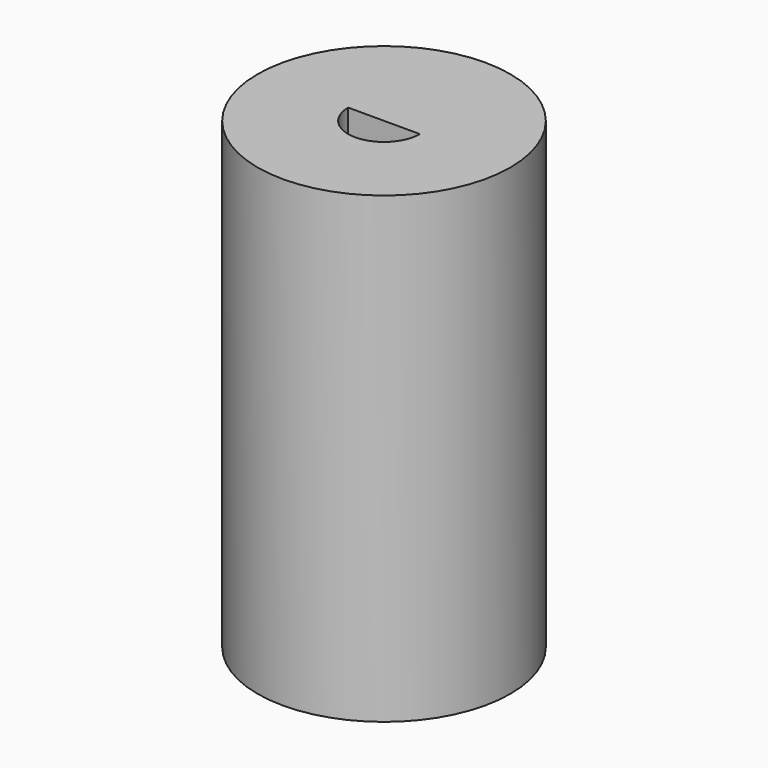
from build123d import *

# Parameters (mm, degrees)
SKETCH_R        = 6
PAD_DEPTH       = 22
POCKET_DEPTH    = 25
POCKET001_DEPTH = 8


with BuildPart() as part:
    # Sketch → Pad (new body)
    with BuildSketch(Plane.XY):
        Circle(SKETCH_R)
    extrude(amount=PAD_DEPTH)

    # Sketch003 → Pocket (cut)
    with BuildSketch(Plane(origin=(0, 0, 0), x_dir=(1, 0, 0), z_dir=(0, 0, -1))):
        with BuildLine():
            ThreePointArc((1.7, 0), (0, 1.7), (-1.7, 0))
            Line((-1.7, 0), (1.7, 0))
        make_face()
    extrude(amount=-POCKET_DEPTH, mode=Mode.SUBTRACT)

    # Sketch004 (on Face2 of Pocket) → Pocket001 (cut)
    with BuildSketch(Plane(origin=(0, 0, 0), x_dir=(1, 0, 0), z_dir=(0, 0, -1))):
        Polygon((4.4, 0), (2.2, 3.810512), (-2.2, 3.810512), (-4.4, 0), (-2.2, -3.810512), (2.2, -3.810512), align=None)
    extrude(amount=-POCKET001_DEPTH, mode=Mode.SUBTRACT)


solid = part.part
